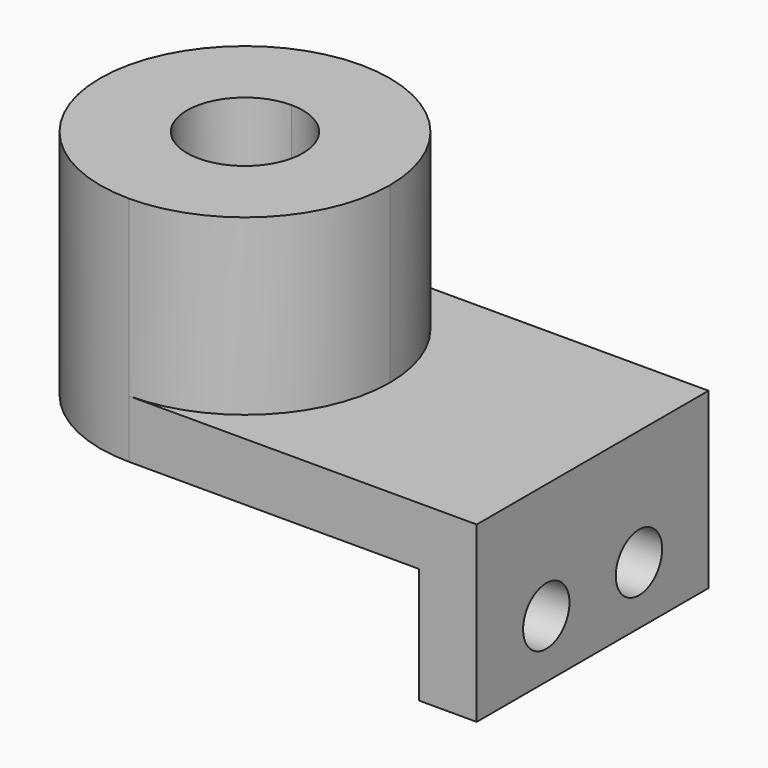
from build123d import *

# Parameters (mm, degrees)
F1_DEPTH = 12.7
F2_DEPTH = 50.8
F3_W     = 31.75
F3_H     = 25.4
F3_R     = 6.35
F4_DEPTH = 12.7


with BuildPart() as f1:
    # F0 (on Top) → F1 (new body)
    with BuildSketch(Plane.XY):
        with BuildLine():
            Line((-38.1, -31.75), (38.1, -31.75))
            Line((38.1, -31.75), (38.1, 31.75))
            Line((38.1, 31.75), (-38.1, 31.75))
            ThreePointArc((-38.1, 31.75), (-15.64936, 22.45064), (-6.35, 0))
            ThreePointArc((-6.35, 0), (-15.64936, -22.45064), (-38.1, -31.75))
        make_face()
        with BuildLine():
            ThreePointArc((-38.1, 31.75), (-69.85, 0), (-38.1, -31.75))
            Line((-38.1, -31.75), (-38.1, -12.7))
            ThreePointArc((-38.1, -12.7), (-50.8, 0), (-38.1, 12.7))
            Line((-38.1, 12.7), (-38.1, 31.75))
        make_face()
    extrude(amount=F1_DEPTH)

    # F0 (on Top) → F2 (join)
    with BuildSketch(Plane.XY):
        with BuildLine():
            Line((-38.1, -12.7), (-38.1, -31.75))
            ThreePointArc((-38.1, -31.75), (-15.64936, -22.45064), (-6.35, 0))
            ThreePointArc((-6.35, 0), (-15.64936, 22.45064), (-38.1, 31.75))
            Line((-38.1, 31.75), (-38.1, 12.7))
            ThreePointArc((-38.1, 12.7), (-29.119744, 8.980256), (-25.4, 0))
            ThreePointArc((-25.4, 0), (-29.119744, -8.980256), (-38.1, -12.7))
        make_face()
        with BuildLine():
            ThreePointArc((-38.1, 31.75), (-69.85, 0), (-38.1, -31.75))
            Line((-38.1, -31.75), (-38.1, -12.7))
            ThreePointArc((-38.1, -12.7), (-50.8, 0), (-38.1, 12.7))
            Line((-38.1, 12.7), (-38.1, 31.75))
        make_face()
    extrude(amount=F2_DEPTH)

    # F3 (on face) → F4 (join)
    with BuildSketch(Plane.YZ.offset(38.1)):
        Polygon((31.75, 12.7), (-31.75, 12.7), (-31.75, 0), (0, 0), (31.75, 0), align=None)
        with Locations((-15.875, -12.7)):
            Rectangle(F3_W, F3_H)
        with Locations((-12.7, -12.7)):
            Circle(F3_R, mode=Mode.SUBTRACT)
        with Locations((15.875, -12.7)):
            Rectangle(F3_W, F3_H)
        with Locations((12.7, -12.7)):
            Circle(F3_R, mode=Mode.SUBTRACT)
    extrude(amount=-F4_DEPTH)


solid = f1.part
